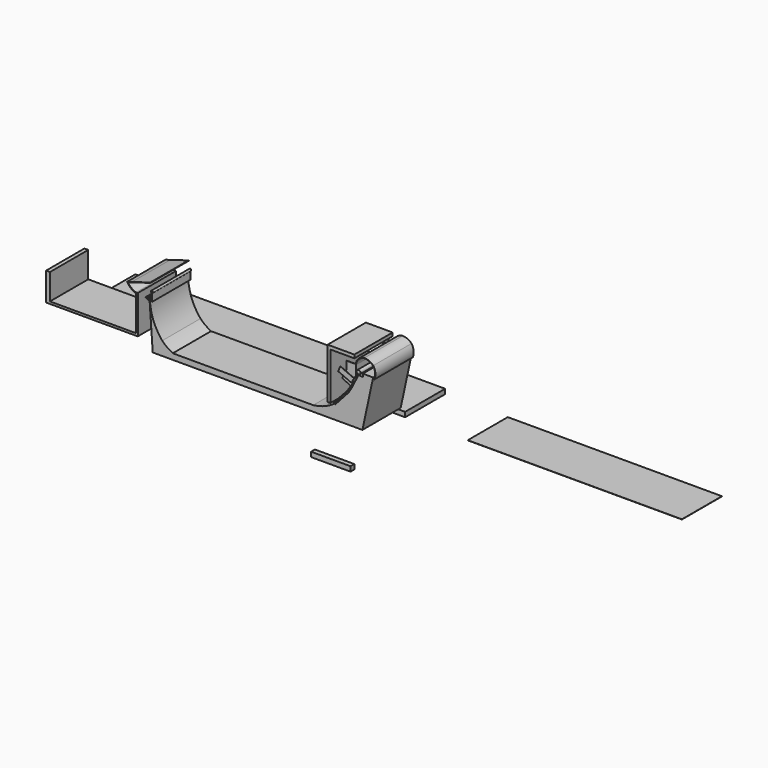
from build123d import *

# Parameters (mm, degrees)
F1_DEPTH  = 25
F0_R      = 0.1
F2_DEPTH  = 25
F3_DEPTH  = 25
F5_DEPTH  = 2.5
F4_W      = 111.8926256895
F4_H      = 26.1270403862
F7_DEPTH  = 0.1
F0_R_2    = 1
F9_DEPTH  = 24
F0_R_3    = 1.029169814
F10_DEPTH = 25
F11_DEPTH = 25
F12_W     = 2.5
F12_H     = 2.5
F13_DEPTH = 2.5
F14_DEPTH = 18.1
F15_DEPTH = 25
F16_DEPTH = 1
F17_W     = 0.1
F17_H     = 5.2410326541
F18_DEPTH = 5
F19_DEPTH = 5
F20_W     = 0.1
F20_H     = 2.80523311
F21_DEPTH = 5
F22_W     = 0.1
F22_H     = 3.4750518822
F23_DEPTH = 5
F24_R     = 0.5
F25_DEPTH = 0.5
F26_DEPTH = 27
F27_DEPTH = 2
F28_W     = 0.1
F28_H     = 2.8330418504
F29_DEPTH = 7.5


with BuildPart() as f1:
    # F0 (on Front) → F1 (new body)
    with BuildSketch(Plane.XZ):
        with BuildLine():
            Line((-36.2419492344, 19.3617755631), (-36.2419492344, 27.8505100084))
            Line((-36.2419492344, 27.8505100084), (-38.2702921091, 27.8505100084))
            Line((-38.2702921091, 27.8505100084), (-38.2702921091, 17.8051125258))
            Line((-38.2702921091, 17.8051125258), (-38.2702921091, 13.151739724))
            Line((-38.2702921091, 13.151739724), (-36.2419492344, 13.151739724))
            Line((-36.2419492344, 13.151739724), (2.6482119562, 13.151739724))
            Line((2.6482119562, 13.151739724), (4.0816886356, 13.151739724))
            Line((4.0816886356, 13.151739724), (5.2144867368, 13.151739724))
            Line((5.2144867368, 13.151739724), (9.6417907625, 13.151739724))
            Line((9.6417907625, 13.151739724), (9.6417907625, 33.1040173769))
            Line((9.6417907625, 33.1040173769), (8.7377969176, 33.1040173769))
            ThreePointArc((8.7377969176, 33.1040173769), (6.2984196882, 34.3754623057), (4.4109269915, 36.3765881873))
            Line((4.4109269915, 36.3765881873), (6.6710681562, 37.0486121721))
            Line((6.6710681562, 37.0486121721), (16.1820917551, 39.8765930424))
            ThreePointArc((16.1820917551, 39.8765930424), (16.2900508454, 39.9769898902), (16.1806685582, 40.07583425))
            Line((16.1806685582, 40.07583425), (15.5127520888, 39.8706265812))
            Line((15.5127520888, 39.8706265812), (6.605698304, 37.222228388))
            Line((6.605698304, 37.222228388), (4.0887155386, 36.4738358477))
            ThreePointArc((4.0887155386, 36.4738358477), (4.7494520955, 35.4586315177), (5.5552186019, 34.5542239954))
            ThreePointArc((5.5552186019, 34.5542239954), (5.5627548213, 34.5508868433), (5.5703019163, 34.5475743601))
            Line((5.5703019163, 34.5475743601), (5.5652904298, 34.5445212662))
            ThreePointArc((5.5652904298, 34.5445212662), (7.0424290401, 33.4211601216), (8.7377969176, 32.6664373279))
            Line((8.7377969176, 32.6664373279), (8.7377969176, 14.3285310603))
            Line((8.7377969176, 14.3285310603), (4.0816886356, 14.3285310603))
            Line((4.0816886356, 14.3285310603), (3.1791766089, 14.3285310603))
            Line((3.1791766089, 14.3285310603), (2.6482119562, 14.3285310603))
            Line((2.6482119562, 14.3285310603), (-36.2419492344, 14.3285310603))
            Line((-36.2419492344, 14.3285310603), (-36.2419492344, 17.8051125258))
            Line((-36.2419492344, 17.8051125258), (-36.2419492344, 19.3617755631))
        make_face()
    extrude(amount=F1_DEPTH)


with BuildPart() as f2:
    # F0 (on Front) → F2 (new body)
    with BuildSketch(Plane.XZ):
        with BuildLine():
            Line((17.0863868074, 31.5404682002), (17.1616906385, 31.5412189812))
            Line((17.1616906385, 31.5412189812), (17.2143504024, 31.5412189812))
            Line((17.2143504024, 31.5412189812), (17.1411414098, 35.4980701954))
            ThreePointArc((17.1411414098, 35.4980701954), (16.9960731361, 36.5716056427), (16.9411982293, 35.4897036577))
            Line((16.9411982293, 35.4897036577), (16.9412299734, 35.4812592268))
            Line((16.9412299734, 35.4812592268), (16.956044361, 31.5403920674))
            Line((16.956044361, 31.5403920674), (17.0389843607, 31.5412189812))
            Line((17.0389843607, 31.5412189812), (16.9960796582, 35.8445889841))
            Line((16.9960796582, 35.8445889841), (17.0434699089, 35.845061466))
            Line((17.0434699089, 35.845061466), (17.0863868074, 31.5404682002))
        make_face()
        with Locations((17.0188155025, 36.0281094909)):
            Circle(F0_R, mode=Mode.SUBTRACT)
    extrude(amount=F2_DEPTH)


with BuildPart() as f3:
    # F0 (on Front) → F3 (new body)
    with BuildSketch(Plane.XZ):
        with BuildLine():
            Line((15.974551759, 32.9070240818), (15.7390532541, 32.8905579479))
            Line((15.7390532541, 32.8905579479), (15.8258194037, 31.647307481))
            ThreePointArc((15.8258194037, 31.647307481), (14.9421305035, 32.0087762715), (14.1244188358, 32.5016387142))
            Line((14.1244188358, 32.5016387142), (16.0277553286, 33.2687634208))
            Line((16.0277553286, 33.2687634208), (16.0388313234, 33.2732275128))
            ThreePointArc((16.0388313234, 33.2732275128), (16.0894967732, 33.3989948726), (15.9682331313, 33.4596541319))
            Line((15.9682331313, 33.4596541319), (15.9485619576, 33.4516239712))
            Line((15.9485619576, 33.4516239712), (13.6827294276, 32.5266664916))
            ThreePointArc((13.6827294276, 32.5266664916), (14.7096441045, 31.8653397654), (15.842477521, 31.4086174833))
            Line((15.842477521, 31.4086174833), (17.45560838, 8.2944686623))
            Line((17.45560838, 8.2944686623), (83.3052264349, 8.2944686623))
            Line((83.3052264349, 8.2944686623), (127.025753987, 8.2944686623))
            Line((127.025753987, 8.2944686623), (132.6270318248, 34.2650240802))
            Line((132.6270318248, 34.2650240802), (127.2254871146, 34.2650240802))
            Line((127.2254871146, 34.2650240802), (127.2254871146, 32.7977798879))
            Line((127.2254871146, 32.7977798879), (124.9292716384, 32.7977798879))
            Line((124.9292716384, 32.7977798879), (121.6305866838, 26.1700805277))
            Line((121.6305866838, 26.1700805277), (119.7535917163, 23.0848435313))
            Line((119.7535917163, 23.0848435313), (118.51978302, 21.6958448291))
            Line((118.51978302, 21.6958448291), (114.0516985243, 16.7718687662))
            Line((114.0516985243, 16.7718687662), (112.7371454729, 15.3231880699))
            Line((112.7371454729, 15.3231880699), (112.5809922814, 15.5116021633))
            Line((112.5809922814, 15.5116021633), (112.4264257385, 15.6547916588))
            ThreePointArc((112.4264257385, 15.6547916588), (107.1604444389, 12.7610850557), (101.3218328068, 11.3416798413))
            Line((101.3218328068, 11.3416798413), (27.9276734218, 11.3416798413))
            ThreePointArc((27.9276734218, 11.3416798413), (25.0007024184, 13.1068332587), (22.4102342692, 15.3367212849))
            ThreePointArc((22.4102342692, 15.3367212849), (17.6514651044, 23.557458802), (15.974551759, 32.9070240818))
        make_face()
    extrude(amount=F3_DEPTH)


with BuildPart() as f5:
    # F4 (on Top) → F5 (new body)
    with BuildSketch(Plane.XY):
        Polygon((62.8758221865, 33.2082095556), (-38.2138518617, 33.2082095556), (-38.2138518617, 7.0811691694), (79.9682810903, 7.0811691694), (123.6817026511, 7.0811691694), (123.6817026511, 33.2082095556), (79.9682810903, 33.2082095556), align=None)
    extrude(amount=F5_DEPTH)


with BuildPart() as f7:
    # F4 (on Top) → F7 (new body)
    with BuildSketch(Plane.XY):
        with Locations((212.3654559255, 20.1446893625)):
            Rectangle(F4_W, F4_H)
    extrude(amount=F7_DEPTH)


with BuildPart() as f9:
    # F0 (on Front) → F9 (new body)
    with BuildSketch(Plane.XZ):
        with Locations((122.2621365883, 34.2323705822)):
            Circle(F0_R_2)
    extrude(amount=F9_DEPTH)

    # F0 (on Front) → F16 (cut)
    with BuildSketch(Plane.XZ):
        with Locations((122.2621365883, 34.2323705822)):
            Circle(F0_R_2)
    extrude(amount=F16_DEPTH, mode=Mode.SUBTRACT)

    # F24 (on face) → F25 (join)
    with BuildSketch(Plane.XZ.offset(24)):
        with Locations((122.2621365883, 34.2323705822)):
            Circle(F24_R)
    extrude(amount=F25_DEPTH)


with BuildPart() as f10:
    # F0 (on Front) → F10 (new body)
    with BuildSketch(Plane.XZ):
        with Locations((125.0250758016, 34.2323705822)):
            Circle(F0_R_3)
    extrude(amount=F10_DEPTH)


with BuildPart() as f11:
    # F0 (on Front) → F11 (new body)
    with BuildSketch(Plane.XZ):
        with BuildLine():
            add(Edge.make_bspline(
                [(123.7358884551, 38.3147671819), (123.6640356194, 37.8885400182), (123.5921827837, 37.4623128546), (123.5840916634, 37.4529585242)],
                knots=[0, 0, 0, 0, 0.5401278987, 0.5401278987, 0.5401278987, 0.5401278987], degree=3))
            Line((123.5840916634, 37.4529585242), (123.5840916634, 32.2119258344))
            Line((123.5840916634, 32.2119258344), (122.489631176, 29.6290032566))
            Line((122.489631176, 29.6290032566), (120.9279439646, 26.5246323641))
            Line((120.9279439646, 26.5246323641), (119.0692239903, 23.6874741994))
            Line((119.0692239903, 23.6874741994), (112.0717409975, 16.1407688561))
            Line((112.0717409975, 16.1407688561), (112.3260706663, 15.9099865705))
            Line((112.3260706663, 15.9099865705), (119.2690879107, 23.5614199191))
            Line((119.2690879107, 23.5614199191), (121.0884749889, 26.4461282641))
            Line((121.0884749889, 26.4461282641), (122.6183219632, 29.5744731739))
            Line((122.6183219632, 29.5744731739), (123.7358884551, 32.2119258344))
            Line((123.7358884551, 32.2119258344), (123.7358884551, 37.2249037027))
            ThreePointArc((123.7358884551, 37.2249037027), (125.069983338, 40.2278534689), (128.061234951, 41.5879748762))
            ThreePointArc((128.061234951, 41.5879748762), (130.483458084, 41.0528650598), (132.544875145, 39.672985673))
            ThreePointArc((132.544875145, 39.672985673), (133.700153354, 36.7385663947), (133.1917345524, 33.6261726916))
            Line((133.1917345524, 33.6261726916), (133.3702355623, 33.6261726916))
            ThreePointArc((133.3702355623, 33.6261726916), (133.7879091067, 36.77001222), (132.685393095, 39.7436693311))
            ThreePointArc((132.685393095, 39.7436693311), (130.5701061838, 41.2025168017), (128.061234951, 41.757710278))
            ThreePointArc((128.061234951, 41.757710278), (125.327879489, 40.7531829972), (123.7358884551, 38.3147671819))
        make_face()
    extrude(amount=F11_DEPTH)

    # F17 (on face) → F18 (join)
    with BuildSketch(Plane(origin=(123.5840916634, 0, 0), x_dir=(0, -1, 0), z_dir=(-1, 0, 0))):
        with Locations((24.95, 34.8324421615)):
            Rectangle(F17_W, F17_H)
    extrude(amount=F18_DEPTH)

    # F17 (on face) → F19 (join)
    with BuildSketch(Plane(origin=(123.5840916634, 0, 0), x_dir=(0, -1, 0), z_dir=(-1, 0, 0))):
        with Locations((0.05, 34.8324421615)):
            Rectangle(F17_W, F17_H)
    extrude(amount=F19_DEPTH)

    # F20 (on face) → F21 (join)
    with BuildSketch(Plane(origin=(93.2010149865, 0, -39.4920192961), x_dir=(0, -1, 0), z_dir=(-0.9207514943, 0, 0.3901495685))):
        with Locations((0.05, 76.4728423241)):
            Rectangle(F20_W, F20_H)
        with Locations((24.95, 76.4728423241)):
            Rectangle(F20_W, F20_H)
    extrude(amount=F21_DEPTH)

    # F22 (on face) → F23 (join)
    with BuildSketch(Plane(origin=(85.8566800835, 0, -43.1911275896), x_dir=(0, -1, 0), z_dir=(-0.8933308042, 0, 0.4493996822))):
        with Locations((24.95, 79.7777766848)):
            Rectangle(F22_W, F22_H)
        with Locations((0.05, 79.7777766848)):
            Rectangle(F22_W, F22_H)
    extrude(amount=F23_DEPTH)


with BuildPart() as f13:
    # F12 (on face) → F13 (new body)
    with BuildSketch(Plane.XZ.offset(25)):
        with Locations((121.5591508434, -10.0059854994)):
            Rectangle(F12_W, F12_H)
    extrude(amount=F13_DEPTH)

    # F14 (add): a face of the model
    f14_faces = [f13.faces().sort_by_distance(p)[0] for p in [
        (120.3091508434, -26.25, -10.0059854994),
    ]]
    extrude(f14_faces, amount=F14_DEPTH)


with BuildPart() as f15:
    # F0 (on Front) → F15 (new body)
    with BuildSketch(Plane.XZ):
        Polygon((110.2612314535, 15.2245052159), (110.2612314535, 39.8633848509), (122.817799449, 39.8633848509), (122.817799449, 41.6112653911), (108.8265553117, 41.6112653911), (108.8265553117, 39.8633848509), (108.8265553117, 15.2245052159), align=None)
    extrude(amount=F15_DEPTH)


with BuildPart() as f26:
    # F0 (on Front) → F26 (new body)
    with BuildSketch(Plane.XZ):
        Polygon((124.2079875145, 31.9161439477), (123.9376217127, 32.0740118623), (122.7906420827, 29.4835362583), (122.9599411014, 29.4085760752), align=None)
    extrude(amount=F26_DEPTH)

    # F27 (add): a face of the model
    f27_faces = [f26.faces().sort_by_distance(p)[0] for p in [
        (123.5247767619, 0, 30.8289974275),
    ]]
    extrude(f27_faces, amount=F27_DEPTH)

    # F28 (on face) → F29 (join)
    with BuildSketch(Plane(origin=(91.7494042817, 0, -40.6236976774), x_dir=(0, -1, 0), z_dir=(-0.9143795753, 0, 0.4048579903))):
        with Locations((26.95, 78.088436868)):
            Rectangle(F28_W, F28_H)
        with Locations((-1.95, 78.088436868)):
            Rectangle(F28_W, F28_H)
    extrude(amount=F29_DEPTH)


solid = Compound([f1.part, f2.part, f3.part, f5.part, f7.part, f9.part, f10.part, f11.part, f13.part, f15.part, f26.part])
